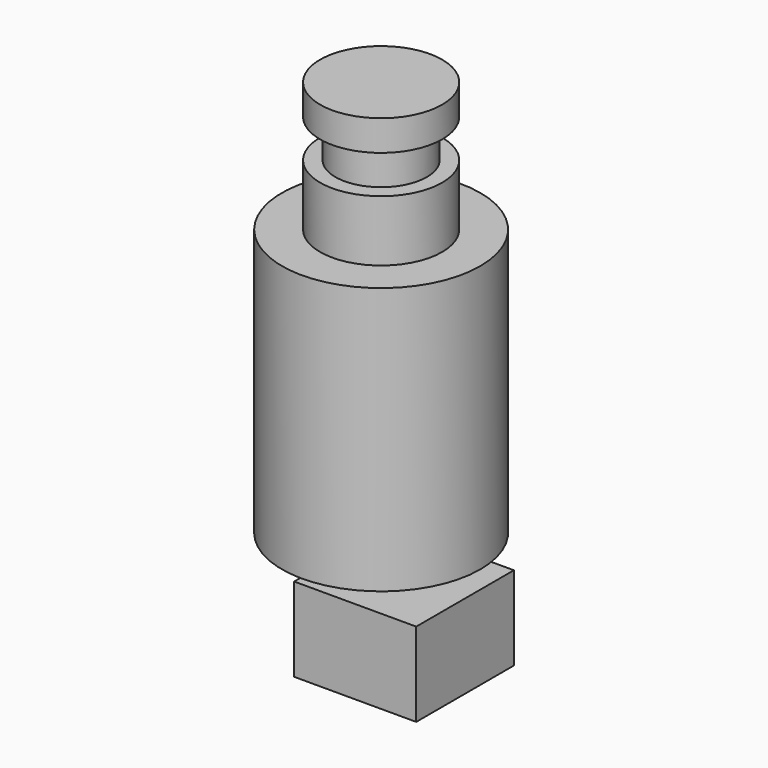
from build123d import *

# Parameters (mm, degrees)
F0_R      = 203.2
F1_DEPTH  = 101.6
F2_R      = 152.4
F3_DEPTH  = 127
F4_R      = 203.2
F5_DEPTH  = 203.2
F6_R      = 330.2
F7_DEPTH  = 889
F8_R      = 63.5
F9_DEPTH  = 101.6
F10_W     = 406.4
F10_H     = 406.4
F10_R     = 63.5
F11_DEPTH = 279.4


with BuildPart() as f1:
    # F0 (on Top) → F1 (new body)
    with BuildSketch(Plane.XY):
        Circle(F0_R)
    extrude(amount=F1_DEPTH)

    # F2 (on face) → F3 (join)
    with BuildSketch(Plane(origin=(0, 0, 0), x_dir=(1, 0, 0), z_dir=(0, 0, -1))):
        Circle(F2_R)
    extrude(amount=F3_DEPTH)

    # F4 (on face) → F5 (join)
    with BuildSketch(Plane(origin=(0, 0, -127), x_dir=(1, 0, 0), z_dir=(0, 0, -1))):
        Circle(F4_R)
    extrude(amount=F5_DEPTH)

    # F6 (on face) → F7 (join)
    with BuildSketch(Plane(origin=(0, 0, -330.2), x_dir=(1, 0, 0), z_dir=(0, 0, -1))):
        Circle(F6_R)
    extrude(amount=F7_DEPTH)

    # F8 (on face) → F9 (join)
    with BuildSketch(Plane(origin=(0, 0, -1219.2), x_dir=(1, 0, 0), z_dir=(0, 0, -1))):
        Circle(F8_R)
    extrude(amount=F9_DEPTH)

    # F10 (on face) → F11 (join)
    with BuildSketch(Plane(origin=(0, 0, -1320.8), x_dir=(1, 0, 0), z_dir=(0, 0, -1))):
        with Locations((76.2, 0)):
            Rectangle(F10_W, F10_H)
        Circle(F10_R, mode=Mode.SUBTRACT)
        Circle(F10_R)
    extrude(amount=F11_DEPTH)


solid = f1.part
